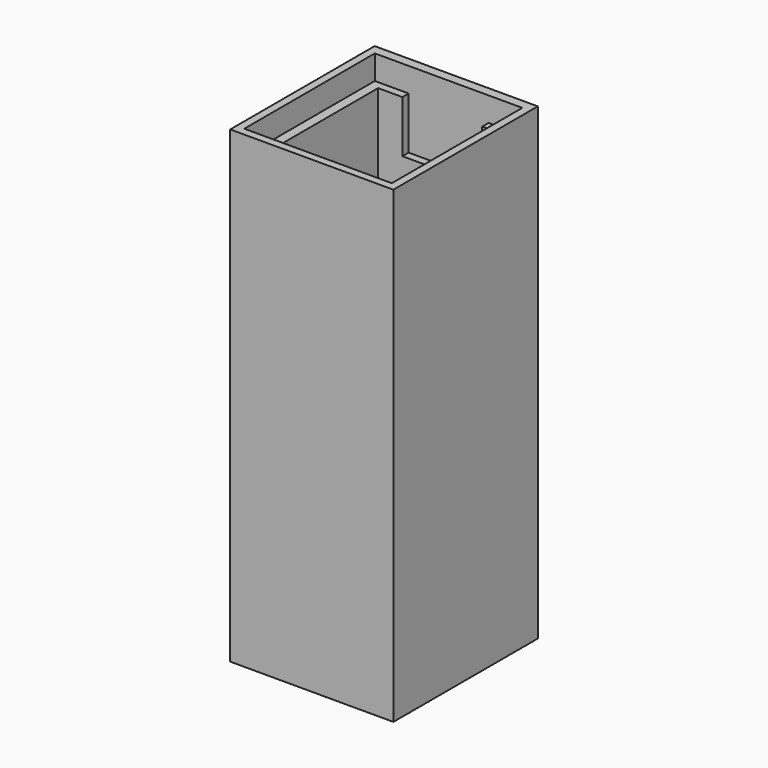
from build123d import *

# Parameters (mm, degrees)
SKETCH119_W             = 47
SKETCH119_H             = 52
SKETCH119_W_2           = 37
SKETCH119_H_2           = 42
PAD060_DEPTH            = 135
SKETCH120_W             = 42.5
SKETCH120_H             = 47
POCKET051_DEPTH         = 7
SKETCH118_W             = 23
SKETCH118_H             = 2.25
POCKET052_DEPTH         = 15
BODY033_PLACEMENT_ANGLE = 180


with BuildPart() as part:
    # Sketch119 → Pad060 (new body)
    with BuildSketch(Plane.XY):
        with Locations((0, -26)):
            Rectangle(SKETCH119_W, SKETCH119_H)
        with Locations((0, -26)):
            Rectangle(SKETCH119_W_2, SKETCH119_H_2, mode=Mode.SUBTRACT)
    extrude(amount=PAD060_DEPTH)

    # Sketch120 (on Face10 of Pad060) → Pocket051 (cut)
    with BuildSketch(Plane.XY.offset(135)):
        with Locations((0, -25.75)):
            Rectangle(SKETCH120_W, SKETCH120_H)
    extrude(amount=-POCKET051_DEPTH, mode=Mode.SUBTRACT)

    # Sketch118 (on Face15 of Pocket051) → Pocket052 (cut)
    with BuildSketch(Plane.XY.offset(128)):
        with Locations((0, -48.125)):
            Rectangle(SKETCH118_W, SKETCH118_H)
    extrude(amount=-POCKET052_DEPTH, mode=Mode.SUBTRACT)


with BuildPart() as part_1:
    # Body033 placement: moved
    add(part.part.rotate(Axis((0, 0, 0), (0, 0, 1)), BODY033_PLACEMENT_ANGLE))


solid = part_1.part
